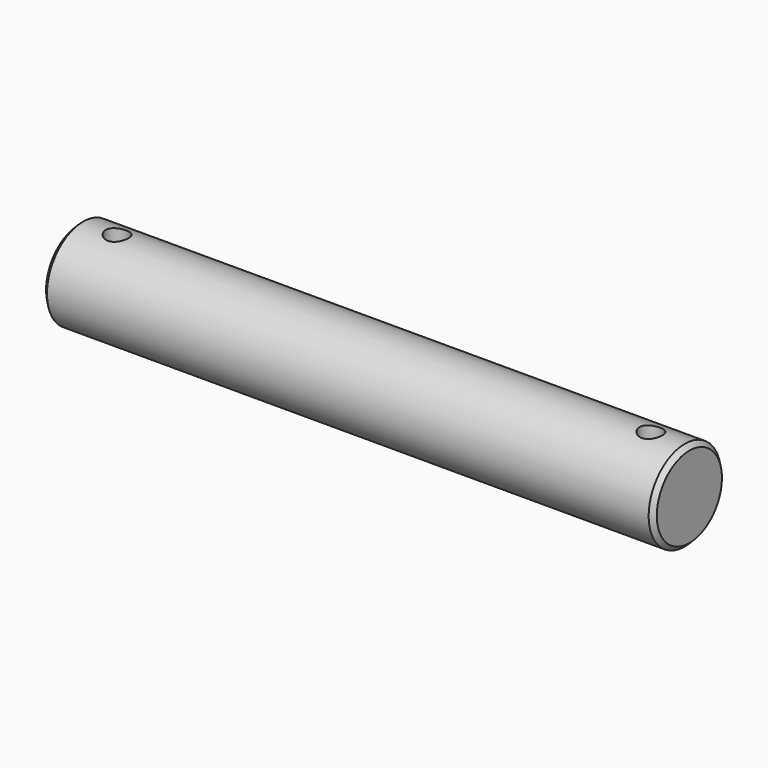
from build123d import *

# Parameters (mm, degrees)
F0_W     = 27
F0_H     = 2
F2_SIZE  = 0.2
F3_R     = 0.5
F4_DEPTH = 2.5


with BuildPart() as f1:
    # F0 (on Front) → F1 (revolve)
    with BuildSketch(Plane.XZ):
        with Locations((13.5, 1)):
            Rectangle(F0_W, F0_H)
    revolve(axis=Axis((13.5, 0, 0), (-1, 0, 0)))

    # F2
    f2_edges = [f1.edges().sort_by_distance(p)[0] for p in [
        (0, 0, -2),
        (27, 0, -2),
    ]]
    chamfer(f2_edges, length=F2_SIZE)

    # F3 (on Top) → F4 (cut, symmetric)
    with BuildSketch(Plane.XY):
        with Locations((1.7, 0)):
            Circle(F3_R)
        with Locations((25.3, 0)):
            Circle(F3_R)
    extrude(amount=F4_DEPTH, both=True, mode=Mode.SUBTRACT)


solid = f1.part
